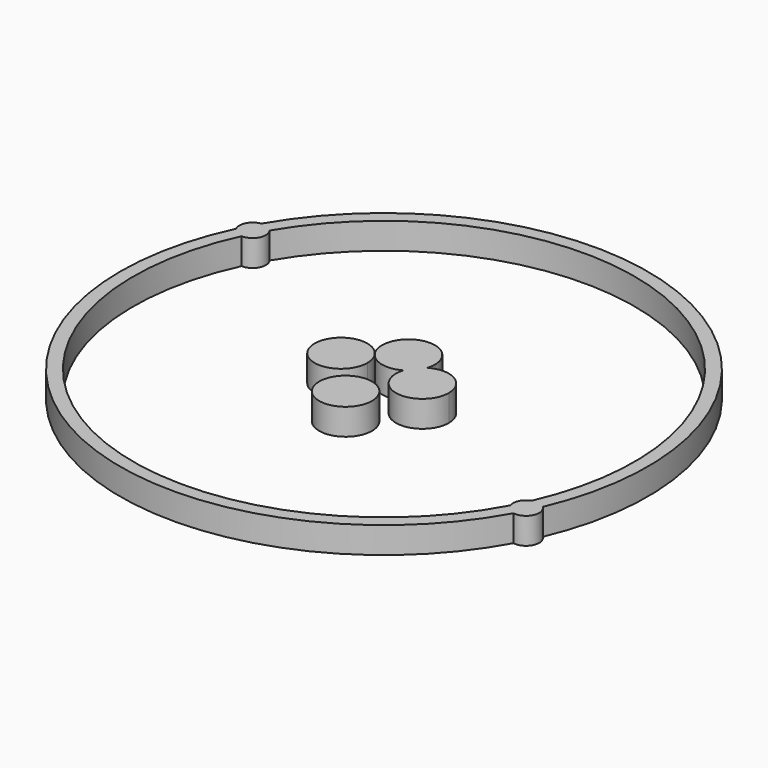
from build123d import *

# Parameters (mm, degrees)
F0_R     = 50
F1_DEPTH = 5
F2_R     = 47.5
F3_DEPTH = 5
F4_R     = 5
F5_DEPTH = 5
F6_R     = 2.5
F7_DEPTH = 5


with BuildPart() as f1:
    # F0 (on Top) → F1 (new body)
    with BuildSketch(Plane.XY):
        Circle(F0_R)
    extrude(amount=F1_DEPTH)

    # F2 (on face) → F3 (cut)
    with BuildSketch(Plane.XY.offset(5)):
        Circle(F2_R)
    extrude(amount=-F3_DEPTH, mode=Mode.SUBTRACT)

    # F6 (on Top) → F7 (join)
    with BuildSketch(Plane.XY):
        with Locations((-42.940509, 22.584302)):
            Circle(F6_R)
        with Locations((44.229992, -21.640321)):
            Circle(F6_R)
    extrude(amount=F7_DEPTH)


with BuildPart() as f5:
    # F4 (on Top) → F5 (new body)
    with BuildSketch(Plane.XY):
        with BuildLine():
            ThreePointArc((4.773879, 4.324892), (3.374706, 3.118626), (2.509046, 1.486634))
            ThreePointArc((2.509046, 1.486634), (3.908219, 2.6929), (4.773879, 4.324892))
        make_face()
        with BuildLine():
            ThreePointArc((4.773879, 4.324892), (3.908219, 2.6929), (2.509046, 1.486634))
            ThreePointArc((2.509046, 1.486634), (6.531058, -4.943146), (12.282924, 0))
            ThreePointArc((12.282924, 0), (9.778398, 4.332737), (4.773879, 4.324892))
        make_face()
        with BuildLine():
            ThreePointArc((5, 5.811526), (-1.525637, 10.573084), (-4.068973, 2.905763))
            ThreePointArc((-4.068973, 2.905763), (-1.054431, 0.923973), (2.509046, 1.486634))
            ThreePointArc((2.509046, 1.486634), (3.374706, 3.118626), (4.773879, 4.324892))
            ThreePointArc((4.773879, 4.324892), (4.943146, 5.05966), (5, 5.811526))
        make_face()
        with BuildLine():
            ThreePointArc((-4.068973, 2.905763), (-12.899504, -1.525637), (-3.137946, 0))
            ThreePointArc((-3.137946, 0), (-3.376388, 1.525637), (-4.068973, 2.905763))
        make_face()
        with Locations((0, -9.080243)):
            Circle(F4_R)
    extrude(amount=F5_DEPTH)


solid = Compound([f1.part, f5.part])
